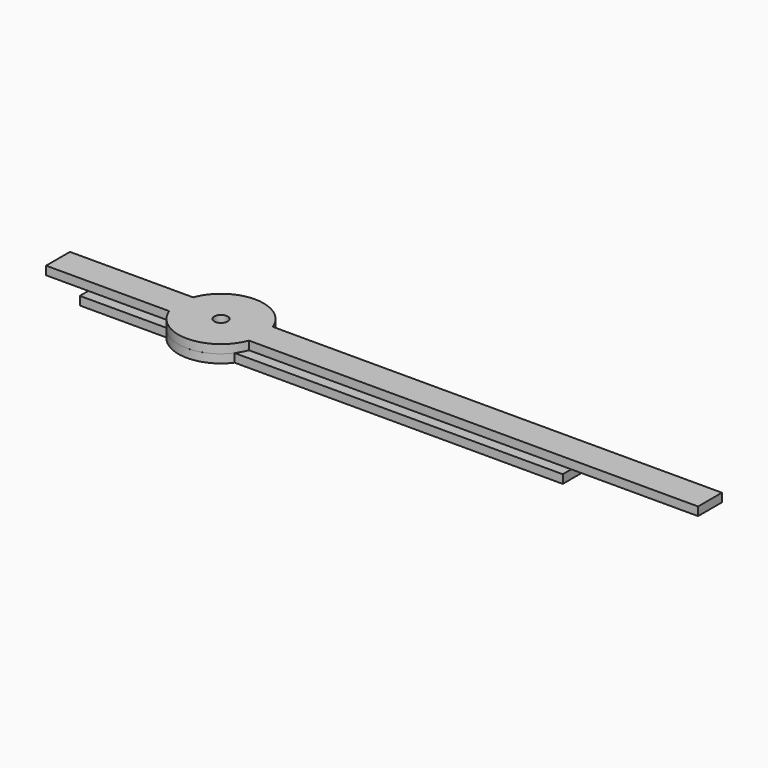
from build123d import *

# Parameters (mm, degrees)
F0_R     = 1.5875
F1_DEPTH = 2
F2_R     = 1.5875
F3_DEPTH = 2


with BuildPart() as f1:
    # F0 (on Top) → F1 (new body)
    with BuildSketch(Plane.XY):
        with BuildLine():
            Line((-9.3674969976, 3.5), (-38.25, 3.5))
            Line((-38.25, 3.5), (-38.25, -3.5))
            Line((-38.25, -3.5), (-9.3674969976, -3.5))
            ThreePointArc((-9.3674969976, -3.5), (-10, 0), (-9.3674969976, 3.5))
        make_face()
        with BuildLine():
            ThreePointArc((9.3674969976, 3.5), (0, 10), (-9.3674969976, 3.5))
            Line((-9.3674969976, 3.5), (9.3674969976, 3.5))
        make_face()
        with BuildLine():
            Line((9.3674969976, 3.5), (-9.3674969976, 3.5))
            ThreePointArc((-9.3674969976, 3.5), (-10, 0), (-9.3674969976, -3.5))
            Line((-9.3674969976, -3.5), (9.3674969976, -3.5))
            ThreePointArc((9.3674969976, -3.5), (9.8406038935, -1.7783461452), (10, 0))
            ThreePointArc((10, 0), (9.8406038935, 1.7783461452), (9.3674969976, 3.5))
        make_face()
        Circle(F0_R, mode=Mode.SUBTRACT)
        with BuildLine():
            Line((114.75, 3.5), (9.3674969976, 3.5))
            ThreePointArc((9.3674969976, 3.5), (9.8406038935, 1.7783461452), (10, 0))
            ThreePointArc((10, 0), (9.8406038935, -1.7783461452), (9.3674969976, -3.5))
            Line((9.3674969976, -3.5), (114.75, -3.5))
            Line((114.75, -3.5), (114.75, 3.5))
        make_face()
        with BuildLine():
            Line((9.3674969976, -3.5), (-9.3674969976, -3.5))
            ThreePointArc((-9.3674969976, -3.5), (0, -10), (9.3674969976, -3.5))
        make_face()
    extrude(amount=F1_DEPTH)


with BuildPart() as f3:
    # F2 (on Top) → F3 (new body)
    with BuildSketch(Plane.XY):
        with BuildLine():
            Line((-8, 6), (-28.3333333333, 6))
            Line((-28.3333333333, 6), (-28.3333333333, -6))
            Line((-28.3333333333, -6), (-8, -6))
            ThreePointArc((-8, -6), (-10, 0), (-8, 6))
        make_face()
        with BuildLine():
            ThreePointArc((8, 6), (0, 10), (-8, 6))
            Line((-8, 6), (8, 6))
        make_face()
        with BuildLine():
            Line((8, 6), (-8, 6))
            ThreePointArc((-8, 6), (-10, 0), (-8, -6))
            Line((-8, -6), (8, -6))
            ThreePointArc((8, -6), (9.4868329805, -3.1622776602), (10, 0))
            ThreePointArc((10, 0), (9.4868329805, 3.1622776602), (8, 6))
        make_face()
        Circle(F2_R, mode=Mode.SUBTRACT)
        with BuildLine():
            Line((85, 6), (8, 6))
            ThreePointArc((8, 6), (9.4868329805, 3.1622776602), (10, 0))
            ThreePointArc((10, 0), (9.4868329805, -3.1622776602), (8, -6))
            Line((8, -6), (85, -6))
            Line((85, -6), (85, 6))
        make_face()
        with BuildLine():
            Line((8, -6), (-8, -6))
            ThreePointArc((-8, -6), (0, -10), (8, -6))
        make_face()
    extrude(amount=-F3_DEPTH)


solid = Compound([f1.part, f3.part])
